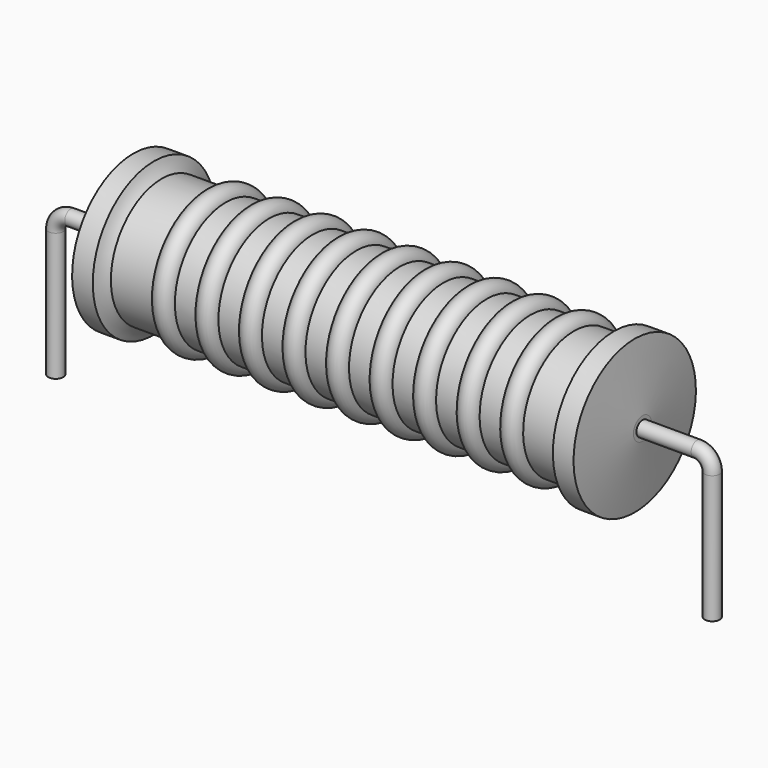
from build123d import *

# Parameters (mm, degrees)
SKETCH_R = 0.35


with BuildPart() as sweep_body:
    # Sweep: sweep along a path in Sketch001
    with BuildLine(Plane.XZ) as sweep_path:
        Line((0, -3), (0, 2.95))
        ThreePointArc((0, 2.95), (0.205028, 3.444977), (0.700007, 3.65))
        Line((0.700007, 3.65), (29.78, 3.65))
        ThreePointArc((29.78, 3.65), (30.274975, 3.444975), (30.48, 2.95))
        Line((30.48, 2.95), (30.48, -3))
    # Sketch → Sweep (sweep)
    with BuildSketch(Plane.XY.offset(-2)):
        Circle(SKETCH_R)
    sweep(path=sweep_path.line)


with BuildPart() as revolution:
    # Sketch002 → Revolution (revolve)
    with BuildSketch(Plane.XZ):
        with BuildLine():
            Line((3.6, 7.2), (4.56, 7.2))
            ThreePointArc((4.56, 7.2), (4.707768, 6.880661), (4.92, 6.6))
            Line((4.92, 6.6), (25.56, 6.6))
            ThreePointArc((25.56, 6.6), (25.772232, 6.880661), (25.92, 7.2))
            Line((25.92, 7.2), (26.88, 7.2))
            ThreePointArc((27.24, 4.175), (27.064906, 5.688084), (26.88, 7.2))
            Line((27.24, 3.65), (27.24, 4.175))
            Line((3.24, 3.65), (27.24, 3.65))
            Line((3.24, 3.65), (3.24, 4.175))
            ThreePointArc((3.6, 7.2), (3.415094, 5.688084), (3.24, 4.175))
        make_face()
    revolve(axis=Axis((3.24, 0, 3.65), (1, 0, 0)))


with BuildPart() as obj1:
    # Sketch003 → Revolution001 (revolve)
    with BuildSketch(Plane.XZ):
        with BuildLine():
            ThreePointArc((7.901053, 6.504), (7.395789, 7.009263), (6.890526, 6.504))
            Line((5.88, 6.504), (6.890526, 6.504))
            Line((5.88, 6.504), (5.88, 5.794))
            Line((5.88, 5.794), (25.08, 5.794))
            Line((25.08, 5.794), (25.08, 6.504))
            Line((24.069474, 6.504), (25.08, 6.504))
            ThreePointArc((24.069474, 6.504), (23.564211, 7.009263), (23.058947, 6.504))
            Line((22.048421, 6.504), (23.058947, 6.504))
            ThreePointArc((22.048421, 6.504), (21.543158, 7.009263), (21.037895, 6.504))
            Line((20.027368, 6.504), (21.037895, 6.504))
            ThreePointArc((20.027368, 6.504), (19.522105, 7.009263), (19.016842, 6.504))
            Line((18.006316, 6.504), (19.016842, 6.504))
            ThreePointArc((18.006316, 6.504), (17.501053, 7.009263), (16.995789, 6.504))
            Line((15.985263, 6.504), (16.995789, 6.504))
            ThreePointArc((15.985263, 6.504), (15.48, 7.009263), (14.974737, 6.504))
            Line((13.964211, 6.504), (14.974737, 6.504))
            ThreePointArc((13.964211, 6.504), (13.458947, 7.009263), (12.953684, 6.504))
            Line((11.943158, 6.504), (12.953684, 6.504))
            ThreePointArc((11.943158, 6.504), (11.437895, 7.009263), (10.932632, 6.504))
            Line((9.922105, 6.504), (10.932632, 6.504))
            ThreePointArc((9.922105, 6.504), (9.416842, 7.009263), (8.911579, 6.504))
            Line((7.901053, 6.504), (8.911579, 6.504))
        make_face()
    revolve(axis=Axis((3.84, 0, 3.65), (1, 0, 0)))

    # obj1: union Sweep body, Revolution
    add(sweep_body.part)
    add(revolution.part)


solid = obj1.part
